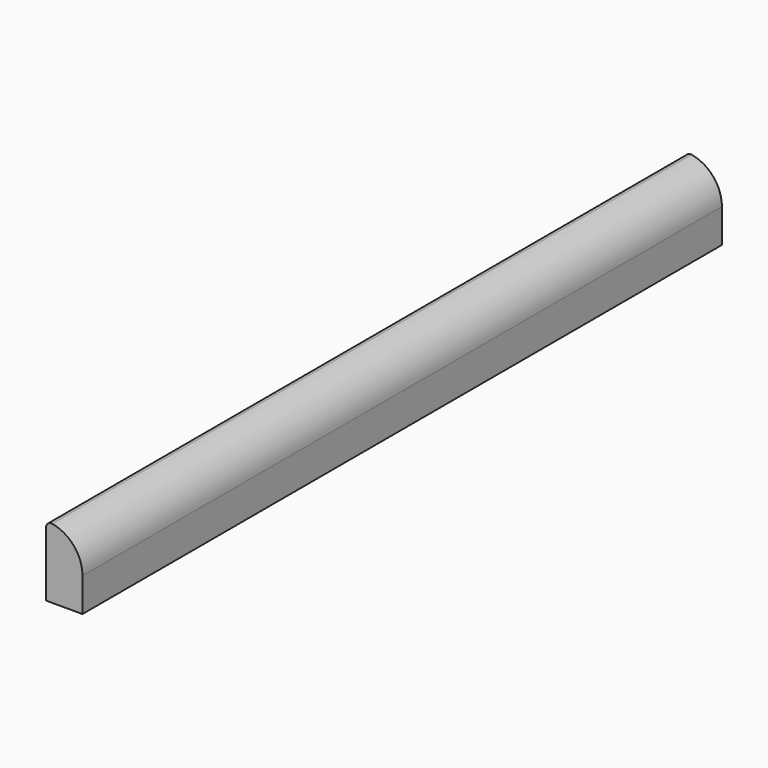
from build123d import *

# Parameters (mm, degrees)
PAD_DEPTH = 615
FILLET_R  = 4


with BuildPart() as part:
    # Sketch → Pad (new body)
    with BuildSketch(Plane.XZ):
        with BuildLine():
            Line((0, 0), (28, 0))
            Line((28, 0), (28, 26))
            ThreePointArc((28, 26), (19.79899, 45.79899), (0, 54))
            Line((0, 54), (0, 0))
        make_face()
    extrude(amount=PAD_DEPTH)

    # Fillet
    fillet_edges = [part.edges().sort_by_distance(p)[0] for p in [
        (0, -307.5, 54),
    ]]
    fillet(fillet_edges, radius=FILLET_R)


solid = part.part
